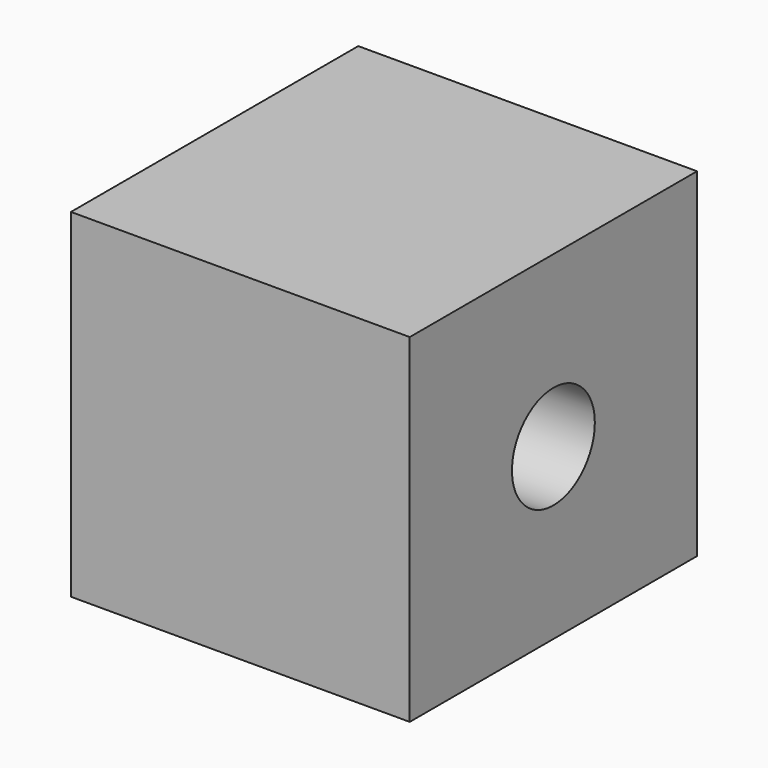
from build123d import *

# Parameters (mm, degrees)
F0_W      = 1270
F0_H      = 1270
F1_DEPTH  = 76.2
F1_FACE_W = 1270
F1_FACE_H = 1270
F2_DEPTH  = 1270
F3_R      = 194.135033
F4_DEPTH  = 40.64
F4_FACE_R = 194.135033
F5_DEPTH  = 1397


with BuildPart() as f1:
    # F0 (on Front) → F1 (new body)
    with BuildSketch(Plane.XZ):
        with Locations((582.012902, 615.979133)):
            Rectangle(F0_W, F0_H)
    extrude(amount=F1_DEPTH)

    # F1_face (on face) → F2 (join)
    with BuildSketch(Plane(origin=(582.012902, 0, 615.979133), x_dir=(1, 0, 0), z_dir=(0, 1, 0))):
        Rectangle(F1_FACE_W, F1_FACE_H)
        Rectangle(F1_FACE_W, F1_FACE_H)
    extrude(amount=F2_DEPTH)

    # F3 (on face) → F4 (join)
    with BuildSketch(Plane.YZ.offset(1217.012902)):
        with Locations((596.9, 615.979133)):
            Circle(F3_R)
    extrude(amount=F4_DEPTH)

    # F4_face (on face) → F5 (cut)
    with BuildSketch(Plane(origin=(1257.652902, 596.9, 615.979133), x_dir=(0, 1, 0), z_dir=(1, 0, 0))):
        Circle(F4_FACE_R)
    extrude(amount=-F5_DEPTH, mode=Mode.SUBTRACT)


solid = f1.part
